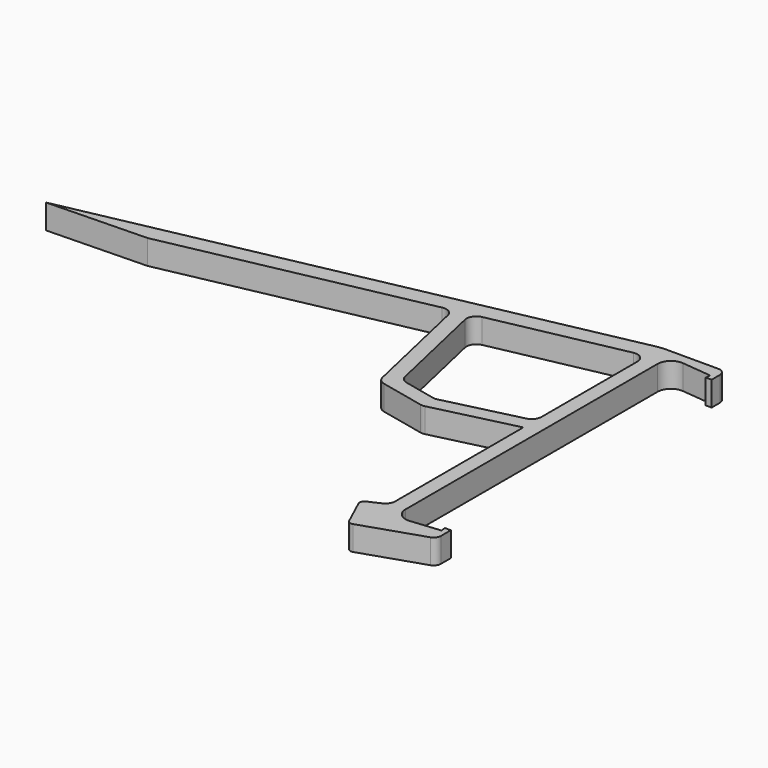
from build123d import *

# Parameters (mm, degrees)
F1_DEPTH = 5
F2_R     = 1.5
F3_R     = 2
F4_R     = 10
F5_R     = 1


with BuildPart() as f1:
    # F0 (on Top) → F1 (new body)
    with BuildSketch(Plane.XY):
        with BuildLine():
            Line((9, 0.6), (3, 0))
            ThreePointArc((3, 0), (0.897663, 0.691907), (0, 2.714963))
            Line((0, 2.714963), (0, 66.785037))
            ThreePointArc((0, 66.785037), (0.897663, 68.808093), (3, 69.5))
            Line((3, 69.5), (9, 68.9))
            Line((9, 68.9), (8.900496, 67.904963))
            Line((8.900496, 67.904963), (10.100496, 67.904963))
            Line((10.100496, 67.904963), (10.100496, 71.5))
            Line((10.100496, 71.5), (-3, 71.5))
            Line((-3, 71.5), (-110.518552, 49.457754))
            Line((-110.518552, 49.457754), (-90.286419, 49.987845))
            Line((-90.286419, 49.987845), (-36.891579, 60.934255))
            Line((-36.891579, 60.934255), (-30.92766, 34.601165))
            Line((-30.92766, 34.601165), (-20.210214, 32.223703))
            Line((-20.210214, 32.223703), (-3, 36.40078))
            Line((-3, 36.40078), (-3, 2.552214))
            Line((-3, 2.552214), (-7.496703, 0.485405))
            Line((-7.496703, 0.485405), (-4.178624, -6.733656))
            Line((-4.178624, -6.733656), (10.100496, -2))
            Line((10.100496, -2), (10.100496, 1.595037))
            Line((10.100496, 1.595037), (8.900496, 1.595037))
            Line((8.900496, 1.595037), (9, 0.6))
        make_face()
        Polygon((-28.311197, 37.116512), (-33.84681, 61.55846), (-3, 67.882326), (-3, 39.46185), (-20.135539, 35.302897), align=None, mode=Mode.SUBTRACT)
    extrude(amount=F1_DEPTH)

    # F2
    f2_edges = [f1.edges().sort_by_distance(p)[0] for p in [
        (10.100496, 71.5, 2.5),
        (10.100496, -2, 2.5),
    ]]
    fillet(f2_edges, radius=F2_R)

    # F3
    f3_edges = [f1.edges().sort_by_distance(p)[0] for p in [
        (-3, 2.552214, 2.5),
        (-3, 39.46185, 2.5),
        (-20.135539, 35.302897, 2.5),
        (-28.311197, 37.116512, 2.5),
        (-33.84681, 61.55846, 2.5),
        (-3, 67.882326, 2.5),
        (-36.891579, 60.934255, 2.5),
        (-30.92766, 34.601165, 2.5),
        (-20.210214, 32.223703, 2.5),
    ]]
    fillet(f3_edges, radius=F3_R)

    # F4
    f4_edges = [f1.edges().sort_by_distance(p)[0] for p in [
        (-3, 71.5, 2.5),
    ]]
    fillet(f4_edges, radius=F4_R)

    # F5
    f5_edges = [f1.edges().sort_by_distance(p)[0] for p in [
        (-4.178624, -6.733656, 2.5),
        (-7.496703, 0.485405, 2.5),
    ]]
    fillet(f5_edges, radius=F5_R)


solid = f1.part
